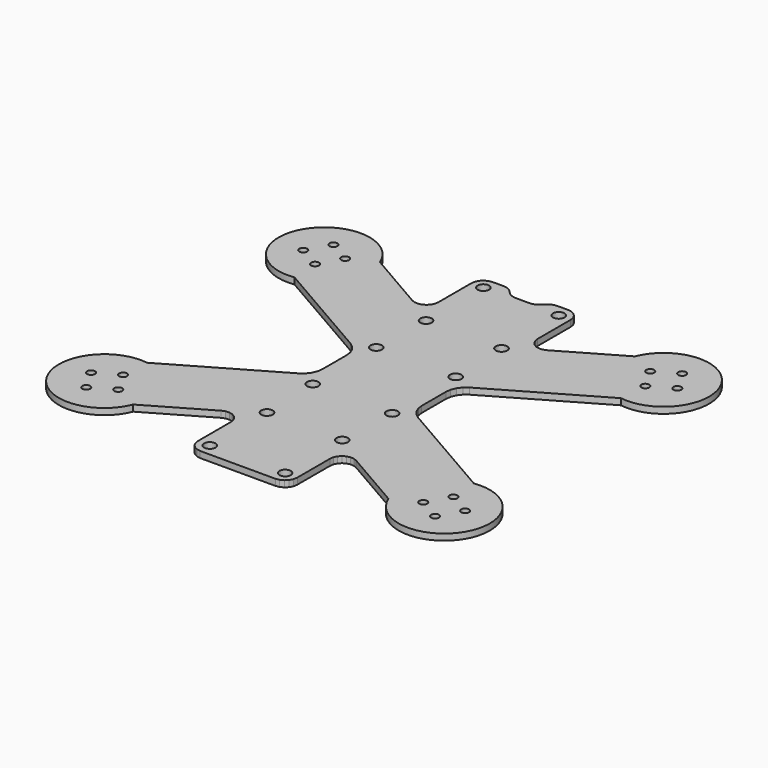
from build123d import *

# Parameters (mm, degrees)
F0_R     = 0.993004
F0_R_2   = 1.444011
F1_DEPTH = 1.5875


with BuildPart() as f1:
    # F0 (on Top) → F1 (new body)
    with BuildSketch(Plane.XY):
        with BuildLine():
            Line((-14.723098, 26.865108), (-29.863264, 35.613344))
            ThreePointArc((-29.863264, 35.613344), (-50.45729, 37.191393), (-38.937857, 20.047683))
            Line((-38.937857, 20.047683), (-12.721558, 4.9235))
            Line((-12.721558, 4.9235), (-11.685765, 4.128267))
            Line((-11.685765, 4.128267), (-10.891915, 3.094106))
            Line((-10.891915, 3.094106), (-10.393018, 1.886993))
            Line((-10.393018, 1.886993), (-10.222391, 0.594116))
            Line((-10.222391, 0.594116), (-10.220915, -7.038907))
            Line((-10.220915, -7.038907), (-10.393611, -8.33664))
            Line((-10.393611, -8.33664), (-10.893255, -9.537127))
            Line((-10.893255, -9.537127), (-11.691344, -10.573302))
            Line((-11.691344, -10.573302), (-12.744763, -11.375137))
            Line((-12.744763, -11.375137), (-38.796974, -26.421059))
            Line((-38.796974, -26.421059), (-38.877102, -26.468848))
            ThreePointArc((-38.877102, -26.468848), (-50.486605, -43.553232), (-29.883725, -42.077399))
            Line((-29.883725, -42.077399), (-14.723923, -33.307276))
            Line((-14.723923, -33.307276), (-13.889479, -32.979281))
            Line((-13.889479, -32.979281), (-12.998538, -32.911762))
            Line((-12.998538, -32.911762), (-12.125839, -33.111285))
            Line((-12.125839, -33.111285), (-11.353738, -33.556437))
            Line((-11.353738, -33.556437), (-10.745112, -34.212011))
            Line((-10.745112, -34.212011), (-10.356967, -35.016805))
            Line((-10.356967, -35.016805), (-10.221996, -35.901241))
            Line((-10.221996, -35.901241), (-10.221996, -46.300355))
            Line((-10.221996, -46.300355), (-10.074989, -47.230888))
            Line((-10.074989, -47.230888), (-9.656024, -48.045732))
            Line((-9.656024, -48.045732), (-8.990064, -48.723656))
            Line((-8.990064, -48.723656), (-8.144654, -49.150351))
            Line((-8.144654, -49.150351), (-7.219487, -49.297899))
            Line((-7.219487, -49.297899), (11.685274, -49.296624))
            Line((11.685274, -49.296624), (12.637615, -49.147114))
            Line((12.637615, -49.147114), (13.504221, -48.70079))
            Line((13.504221, -48.70079), (14.18661, -48.018399))
            Line((14.18661, -48.018399), (14.627374, -47.158636))
            Line((14.627374, -47.158636), (14.775819, -46.2091))
            Line((14.775819, -46.2091), (14.778971, -35.906233))
            Line((14.778971, -35.906233), (14.910567, -35.024933))
            Line((14.910567, -35.024933), (15.297383, -34.217406))
            Line((15.297383, -34.217406), (15.907513, -33.557428))
            Line((15.907513, -33.557428), (16.67915, -33.11279))
            Line((16.67915, -33.11279), (17.548487, -32.913399))
            Line((17.548487, -32.913399), (18.445739, -32.979199))
            Line((18.445739, -32.979199), (19.277777, -33.305883))
            Line((19.277777, -33.305883), (34.417649, -42.047282))
            ThreePointArc((34.417649, -42.047282), (55.015649, -43.582376), (43.457552, -26.463833))
            Line((43.457552, -26.463833), (17.281802, -11.366066))
            Line((17.281802, -11.366066), (16.244157, -10.573521))
            Line((16.244157, -10.573521), (15.449484, -9.535828))
            Line((15.449484, -9.535828), (14.94993, -8.331098))
            Line((14.94993, -8.331098), (14.780158, -7.041344))
            Line((14.780158, -7.041344), (14.780158, 0.595206))
            Line((14.780158, 0.595206), (14.94993, 1.885977))
            Line((14.94993, 1.885977), (15.448278, 3.091799))
            Line((15.448278, 3.091799), (16.244157, 4.133809))
            Line((16.244157, 4.133809), (17.277955, 4.923416))
            Line((17.277955, 4.923416), (43.350993, 19.979317))
            ThreePointArc((43.350993, 19.979317), (54.979423, 37.050162), (34.375281, 35.599827))
            Line((34.375281, 35.599827), (19.284697, 26.87011))
            Line((19.284697, 26.87011), (18.450038, 26.540194))
            Line((18.450038, 26.540194), (17.539247, 26.472519))
            Line((17.539247, 26.472519), (16.68203, 26.667085))
            Line((16.68203, 26.667085), (15.906996, 27.120017))
            Line((15.906996, 27.120017), (15.300046, 27.770561))
            Line((15.300046, 27.770561), (14.911061, 28.57871))
            Line((14.911061, 28.57871), (14.778835, 29.453185))
            Line((14.778835, 29.453185), (14.778835, 39.838884))
            Line((14.778835, 39.838884), (14.635858, 40.771108))
            Line((14.635858, 40.771108), (14.205475, 41.613926))
            Line((14.205475, 41.613926), (13.539729, 42.286281))
            Line((13.539729, 42.286281), (12.708107, 42.70209))
            Line((12.708107, 42.70209), (11.775819, 42.852354))
            Line((11.775819, 42.852354), (9.028588, 42.849436))
            Line((9.028588, 42.849436), (8.248972, 42.750109))
            Line((8.248972, 42.750109), (7.521199, 42.450108))
            Line((7.521199, 42.450108), (6.899957, 41.975875))
            Line((6.899957, 41.975875), (6.155663, 41.238896))
            Line((6.155663, 41.238896), (5.542562, 40.758778))
            Line((5.542562, 40.758778), (4.811539, 40.46033))
            Line((4.811539, 40.46033), (4.057043, 40.356379))
            Line((4.057043, 40.356379), (0.515512, 40.356379))
            Line((0.515512, 40.356379), (-0.251471, 40.45441))
            Line((-0.251471, 40.45441), (-0.987362, 40.755984))
            Line((-0.987362, 40.755984), (-1.601019, 41.228801))
            Line((-1.601019, 41.228801), (-2.333428, 41.96848))
            Line((-2.333428, 41.96848), (-2.958887, 42.448372))
            Line((-2.958887, 42.448372), (-3.688263, 42.751611))
            Line((-3.688263, 42.751611), (-4.465904, 42.852182))
            Line((-4.465904, 42.852182), (-7.223364, 42.850204))
            Line((-7.223364, 42.850204), (-8.143452, 42.702295))
            Line((-8.143452, 42.702295), (-8.975075, 42.283129))
            Line((-8.975075, 42.283129), (-9.64701, 41.617799))
            Line((-9.64701, 41.617799), (-10.078163, 40.777281))
            Line((-10.078163, 40.777281), (-10.221545, 39.848268))
            Line((-10.221545, 39.848268), (-10.221545, 29.468842))
            Line((-10.221545, 29.468842), (-10.356562, 28.594707))
            Line((-10.356562, 28.594707), (-10.741985, 27.769495))
            Line((-10.741985, 27.769495), (-11.349, 27.124543))
            Line((-11.349, 27.124543), (-12.121995, 26.674023))
            Line((-12.121995, 26.674023), (-12.989837, 26.475296))
            Line((-12.989837, 26.475296), (-13.889652, 26.536117))
            Line((-13.889652, 26.536117), (-14.723098, 26.865108))
        make_face()
        with Locations((-41.662121, -42.13991)):
            Circle(F0_R, mode=Mode.SUBTRACT)
        with Locations((-36.148938, -38.95656)):
            Circle(F0_R, mode=Mode.SUBTRACT)
        with Locations((-44.843597, -36.637466)):
            Circle(F0_R, mode=Mode.SUBTRACT)
        with Locations((-39.334769, -33.438058)):
            Circle(F0_R, mode=Mode.SUBTRACT)
        with Locations((-7.196873, -46.281218)):
            Circle(F0_R_2, mode=Mode.SUBTRACT)
        with Locations((-7.196873, -28.3006)):
            Circle(F0_R_2, mode=Mode.SUBTRACT)
        with Locations((-7.73577, -13.198138)):
            Circle(F0_R_2, mode=Mode.SUBTRACT)
        with Locations((11.686507, -46.199943)):
            Circle(F0_R_2, mode=Mode.SUBTRACT)
        with Locations((11.686507, -28.198998)):
            Circle(F0_R_2, mode=Mode.SUBTRACT)
        with Locations((40.701358, -38.95656)):
            Circle(F0_R, mode=Mode.SUBTRACT)
        with Locations((46.225792, -42.13991)):
            Circle(F0_R, mode=Mode.SUBTRACT)
        with Locations((49.40368, -36.637466)):
            Circle(F0_R, mode=Mode.SUBTRACT)
        with Locations((43.888332, -33.438058)):
            Circle(F0_R, mode=Mode.SUBTRACT)
        with Locations((12.255891, -13.198138)):
            Circle(F0_R_2, mode=Mode.SUBTRACT)
        with Locations((-7.730273, 6.771058)):
            Circle(F0_R_2, mode=Mode.SUBTRACT)
        with Locations((-39.334769, 27.009396)):
            Circle(F0_R, mode=Mode.SUBTRACT)
        with Locations((-44.843597, 30.177385)):
            Circle(F0_R, mode=Mode.SUBTRACT)
        with Locations((-41.662121, 35.696518)):
            Circle(F0_R, mode=Mode.SUBTRACT)
        with Locations((-36.148938, 32.520008)):
            Circle(F0_R, mode=Mode.SUBTRACT)
        with Locations((-7.234972, 21.847867)):
            Circle(F0_R_2, mode=Mode.SUBTRACT)
        with Locations((-7.196873, 39.856457)):
            Circle(F0_R_2, mode=Mode.SUBTRACT)
        with Locations((12.29907, 6.771058)):
            Circle(F0_R_2, mode=Mode.SUBTRACT)
        with Locations((11.772867, 21.847867)):
            Circle(F0_R_2, mode=Mode.SUBTRACT)
        with Locations((11.772867, 39.875787)):
            Circle(F0_R_2, mode=Mode.SUBTRACT)
        with Locations((43.888332, 27.009396)):
            Circle(F0_R, mode=Mode.SUBTRACT)
        with Locations((49.40368, 30.177385)):
            Circle(F0_R, mode=Mode.SUBTRACT)
        with Locations((40.705846, 32.520009)):
            Circle(F0_R, mode=Mode.SUBTRACT)
        with Locations((46.225792, 35.696518)):
            Circle(F0_R, mode=Mode.SUBTRACT)
    extrude(amount=F1_DEPTH)


solid = f1.part
